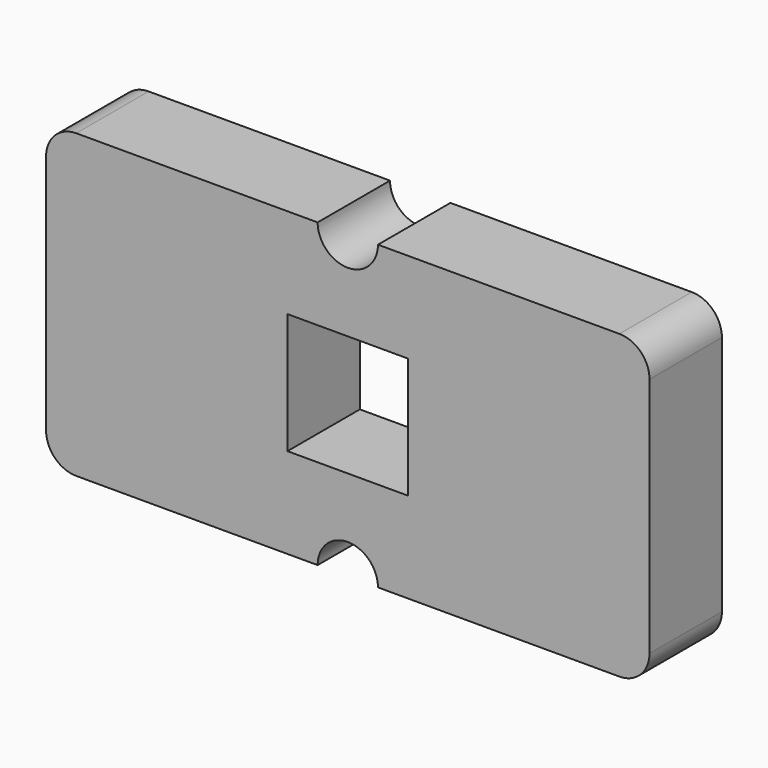
from build123d import *

# Parameters (mm, degrees)
F0_W     = 50.8
F0_H     = 50.8
F1_DEPTH = 38.1


with BuildPart() as f1:
    # F0 (on Front) → F1 (new body)
    with BuildSketch(Plane.XZ):
        with BuildLine():
            Line((-10.856453, 39.855531), (-112.456453, 39.855531))
            ThreePointArc((-112.456453, 39.855531), (-121.436709, 36.135787), (-125.156453, 27.155531))
            Line((-125.156453, 27.155531), (-125.156453, -74.444469))
            ThreePointArc((-125.156453, -74.444469), (-121.436709, -83.424726), (-112.456453, -87.144469))
            Line((-112.456453, -87.144469), (-10.856453, -87.144469))
            ThreePointArc((-10.856453, -87.144469), (1.843547, -74.444469), (14.543547, -87.144469))
            Line((14.543547, -87.144469), (116.143547, -87.144469))
            ThreePointArc((116.143547, -87.144469), (125.123804, -83.424726), (128.843547, -74.444469))
            Line((128.843547, -74.444469), (128.843547, 27.155531))
            ThreePointArc((128.843547, 27.155531), (125.123804, 36.135787), (116.143547, 39.855531))
            Line((116.143547, 39.855531), (14.543547, 39.855531))
            ThreePointArc((14.543547, 39.855531), (1.843547, 27.155531), (-10.856453, 39.855531))
        make_face()
        with Locations((1.843547, -23.644469)):
            Rectangle(F0_W, F0_H, mode=Mode.SUBTRACT)
    extrude(amount=F1_DEPTH)


solid = f1.part
